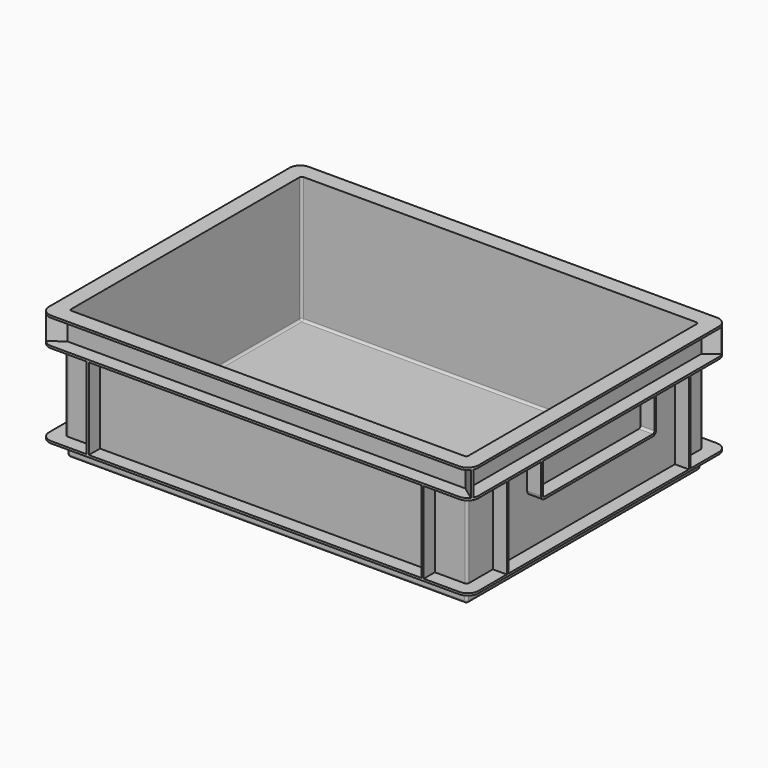
from build123d import *

# Parameters (mm, degrees)
F0_W      = 372
F0_H      = 272
F1_DEPTH  = 15
F2_W      = 372
F2_H      = 272
F3_DEPTH  = 2
F5_DEPTH  = 76
F7_DEPTH  = 2
F9_DEPTH  = 23
F11_DEPTH = 2
F12_W     = 370
F12_H     = 270
F13_DEPTH = 118
F15_DEPTH = 13
F17_DEPTH = 13
F18_R     = 2


with BuildPart() as f1:
    # F0 (on Top) → F1 (new body)
    with BuildSketch(Plane.XY):
        Rectangle(F0_W, F0_H)
    extrude(amount=F1_DEPTH)

    # F2 (on face) → F3 (join)
    with BuildSketch(Plane.XY.offset(15)):
        with BuildLine():
            Line((-190, -150), (190, -150))
            ThreePointArc((190, -150), (197.0710678119, -147.0710678119), (200, -140))
            Line((200, -140), (200, 140))
            ThreePointArc((200, 140), (197.0710678119, 147.0710678119), (190, 150))
            Line((190, 150), (-190, 150))
            ThreePointArc((-190, 150), (-197.0710678119, 147.0710678119), (-200, 140))
            Line((-200, 140), (-200, -140))
            ThreePointArc((-200, -140), (-197.0710678119, -147.0710678119), (-190, -150))
        make_face()
        Rectangle(F2_W, F2_H, mode=Mode.SUBTRACT)
        Rectangle(F2_W, F2_H)
    extrude(amount=F3_DEPTH)

    # F4 (on face) → F5 (join)
    with BuildSketch(Plane.XY.offset(17)):
        Polygon((157, -137), (187, -137), (187, -107), (200, -107), (200, -105), (187, -105), (187, 105), (200, 105), (200, 107), (187, 107), (187, 137), (157, 137), (157, 150), (155, 150), (155, 137), (-155, 137), (-155, 150), (-157, 150), (-157, 137), (-187, 137), (-187, 107), (-200, 107), (-200, 105), (-187, 105), (-187, -105), (-200, -105), (-200, -107), (-187, -107), (-187, -137), (-157, -137), (-157, -150), (-155, -150), (-155, -137), (155, -137), (155, -150), (157, -150), align=None)
    extrude(amount=F5_DEPTH)

    # F6 (on face) → F7 (join)
    with BuildSketch(Plane.XY.offset(93)):
        with BuildLine():
            Line((190, 150), (-190, 150))
            ThreePointArc((-190, 150), (-197.0710678119, 147.0710678119), (-200, 140))
            Line((-200, 140), (-200, -140))
            ThreePointArc((-200, -140), (-197.0710678119, -147.0710678119), (-190, -150))
            Line((-190, -150), (190, -150))
            ThreePointArc((190, -150), (197.0710678119, -147.0710678119), (200, -140))
            Line((200, -140), (200, 140))
            ThreePointArc((200, 140), (197.0710678119, 147.0710678119), (190, 150))
        make_face()
    extrude(amount=F7_DEPTH)

    # F8 (on face) → F9 (join)
    with BuildSketch(Plane.XY.offset(95)):
        with BuildLine():
            Line((-185.3079227659, -137), (185.3079227659, -137))
            Line((185.3079227659, -137), (197.8531877713, -146.1909160735))
            ThreePointArc((197.8531877713, -146.1909160735), (198.4340605379, -145.3727667773), (198.9300207482, -144.5005254622))
            Line((198.9300207482, -144.5005254622), (187, -135.7603498338))
            Line((187, -135.7603498338), (187, 135.7603498338))
            Line((187, 135.7603498338), (198.9300207482, 144.5005254622))
            ThreePointArc((198.9300207482, 144.5005254622), (198.4340605379, 145.3727667773), (197.8531877713, 146.1909160735))
            Line((197.8531877713, 146.1909160735), (185.3079227659, 137))
            Line((185.3079227659, 137), (-185.3079227659, 137))
            Line((-185.3079227659, 137), (-197.8531877713, 146.1909160735))
            ThreePointArc((-197.8531877713, 146.1909160735), (-198.4340605379, 145.3727667773), (-198.9300207482, 144.5005254622))
            Line((-198.9300207482, 144.5005254622), (-187, 135.7603498338))
            Line((-187, 135.7603498338), (-187, -135.7603498338))
            Line((-187, -135.7603498338), (-198.9300207482, -144.5005254622))
            ThreePointArc((-198.9300207482, -144.5005254622), (-198.4340605379, -145.3727667773), (-197.8531877713, -146.1909160735))
            Line((-197.8531877713, -146.1909160735), (-185.3079227659, -137))
        make_face()
    extrude(amount=F9_DEPTH)

    # F10 (on face) → F11 (join)
    with BuildSketch(Plane.XY.offset(118)):
        with BuildLine():
            Line((-190, -150), (190, -150))
            ThreePointArc((190, -150), (197.0710678119, -147.0710678119), (200, -140))
            Line((200, -140), (200, 140))
            ThreePointArc((200, 140), (197.0710678119, 147.0710678119), (190, 150))
            Line((190, 150), (-190, 150))
            ThreePointArc((-190, 150), (-197.0710678119, 147.0710678119), (-200, 140))
            Line((-200, 140), (-200, -140))
            ThreePointArc((-200, -140), (-197.0710678119, -147.0710678119), (-190, -150))
        make_face()
    extrude(amount=F11_DEPTH)

    # F12 (on face) → F13 (cut)
    with BuildSketch(Plane.XY.offset(120)):
        Rectangle(F12_W, F12_H)
    extrude(amount=-F13_DEPTH, mode=Mode.SUBTRACT)

    # F14 (on face) → F15 (join, through all)
    with BuildSketch(Plane(origin=(-187, 0, 0), x_dir=(0, -1, 0), z_dir=(-1, 0, 0))):
        with BuildLine():
            Line((-63, 61), (63, 61))
            ThreePointArc((63, 61), (65.8284271247, 62.1715728753), (67, 65))
            Line((67, 65), (67, 93))
            Line((67, 93), (65, 93))
            Line((65, 93), (65, 65))
            ThreePointArc((65, 65), (64.4142135624, 63.5857864376), (63, 63))
            Line((63, 63), (-63, 63))
            ThreePointArc((-63, 63), (-64.4142135624, 63.5857864376), (-65, 65))
            Line((-65, 65), (-65, 93))
            Line((-65, 93), (-67, 93))
            Line((-67, 93), (-67, 65))
            ThreePointArc((-67, 65), (-65.8284271247, 62.1715728753), (-63, 61))
        make_face()
    extrude(amount=F15_DEPTH)

    # F16 (on face) → F17 (join, through all)
    with BuildSketch(Plane.YZ.offset(187)):
        with BuildLine():
            ThreePointArc((63, 61), (65.8284271247, 62.1715728753), (67, 65))
            Line((67, 65), (67, 93))
            Line((67, 93), (65, 93))
            Line((65, 93), (65, 65))
            ThreePointArc((65, 65), (64.4142135624, 63.5857864376), (63, 63))
            Line((63, 63), (-63, 63))
            ThreePointArc((-63, 63), (-64.4142135624, 63.5857864376), (-65, 65))
            Line((-65, 65), (-65, 93))
            Line((-65, 93), (-67, 93))
            Line((-67, 93), (-67, 65))
            ThreePointArc((-67, 65), (-65.8284271247, 62.1715728753), (-63, 61))
            Line((-63, 61), (63, 61))
        make_face()
    extrude(amount=F17_DEPTH)

    # F18
    f18_edges = [f1.edges().sort_by_distance(p)[0] for p in [
        (-185, -135, 61),
        (185, -135, 61),
        (185, 135, 61),
        (0, 135, 2),
        (185, 0, 2),
        (0, -135, 2),
        (-185, 0, 2),
        (-185, 135, 61),
        (187, -137, 55),
        (187, 137, 55),
        (-187, 137, 55),
        (-187, -137, 55),
        (186, 0, 0),
        (0, 136, 0),
        (186, 136, 7.5),
        (0, -136, 0),
        (186, -136, 7.5),
        (-186, -136, 7.5),
        (-186, 0, 0),
        (-186, 136, 7.5),
    ]]
    fillet(f18_edges, radius=F18_R)


solid = f1.part
